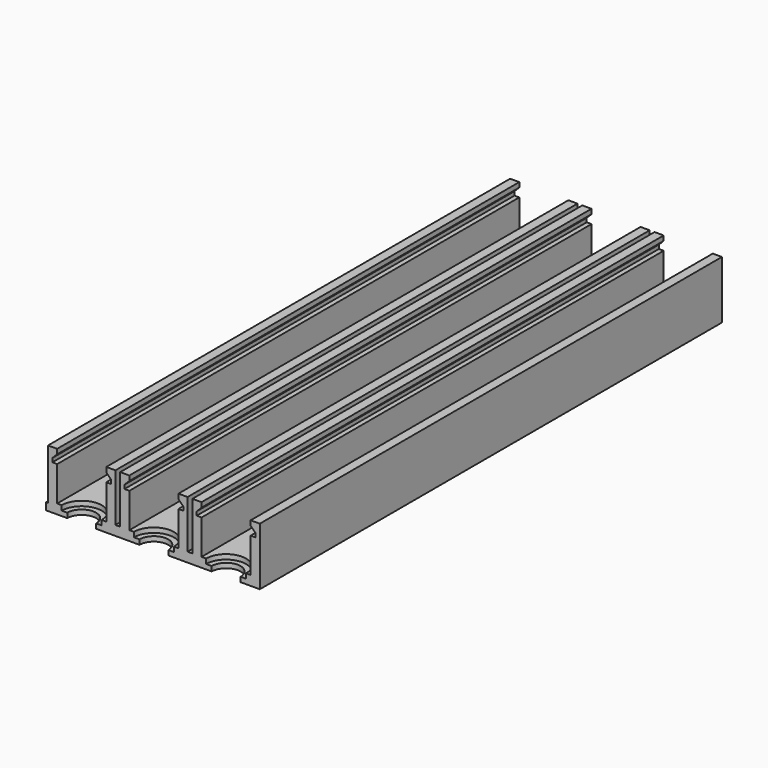
from build123d import *

# Parameters (mm, degrees)
PAD002_DEPTH           = 120
SKETCH012_W            = 44
SKETCH012_H            = 120
PAD003_DEPTH           = 2
LINEARPATTERN001_COUNT = 3
LINEARPATTERN001_PITCH = 15
SKETCH013_R            = 3
POCKET_DEPTH           = 5
SKETCH014_R            = 3
POCKET012_DEPTH        = 5
SKETCH016_R            = 4.15
POCKET013_DEPTH        = 1
POCKET013_DEPTH_BACK   = -8
SKETCH017_R            = 4.15
POCKET014_DEPTH        = 1
POCKET014_DEPTH_BACK   = -8
SKETCH_W               = 1.5
SKETCH_H               = 20
PAD_DEPTH              = 0.4


with BuildPart() as part:
    # Sketch011 → Pad002 (new body)
    with BuildSketch(Plane.XZ):
        Polygon((7, -6), (7, 6), (5.1, 6), (5.1, 5), (6.1, 4), (6.1, 3.2), (5.1, 3.2), (5.1, -4), (-5.1, -4), (-5.1, 3.2), (-6.1, 3.2), (-6.1, 4), (-5.1, 5), (-5.1, 6), (-7, 6), (-7, -6), align=None)
    pad002 = extrude(amount=PAD002_DEPTH)

    # Sketch012 (on DatumPlane) → Pad003 (join)
    with BuildSketch(Plane.XY.offset(-6)):
        with Locations((15, -60)):
            Rectangle(SKETCH012_W, SKETCH012_H)
    extrude(amount=PAD003_DEPTH)

    # LinearPattern001: Pad002 ×3
    with Locations(*[(i * LINEARPATTERN001_PITCH, 0, 0) for i in range(1, LINEARPATTERN001_COUNT)]):
        add(pad002)

    # Sketch013 → Pocket (cut)
    with BuildSketch(Plane(origin=(-15, -215.5, -4), x_dir=(1, 0, 0), z_dir=(0, 0, 1))):
        with Locations((15, 95.5)):
            Circle(SKETCH013_R)
        with Locations((45, 95.5)):
            Circle(SKETCH013_R)
        with Locations((30, 110.5)):
            Circle(SKETCH013_R)
        with Locations((15, 125.5)):
            Circle(SKETCH013_R)
        with Locations((45, 125.5)):
            Circle(SKETCH013_R)
        with Locations((15, 155.5)):
            Circle(SKETCH013_R)
        with Locations((45, 155.5)):
            Circle(SKETCH013_R)
        with Locations((30, 140.5)):
            Circle(SKETCH013_R)
        with Locations((30, 170.5)):
            Circle(SKETCH013_R)
        with Locations((15, 185.5)):
            Circle(SKETCH013_R)
        with Locations((45, 185.5)):
            Circle(SKETCH013_R)
        with Locations((30, 200.5)):
            Circle(SKETCH013_R)
        with Locations((15, 215.5)):
            Circle(SKETCH013_R)
        with Locations((45, 215.5)):
            Circle(SKETCH013_R)
    extrude(amount=-POCKET_DEPTH, mode=Mode.SUBTRACT)

    # Sketch014 → Pocket012 (cut)
    with BuildSketch(Plane(origin=(0, -215.5, -4), x_dir=(1, 0, 0), z_dir=(0, 0, 1))):
        with Locations((15, 95.5)):
            Circle(SKETCH014_R)
        with Locations((30, 110.5)):
            Circle(SKETCH014_R)
        with Locations((15, 125.5)):
            Circle(SKETCH014_R)
        with Locations((15, 155.5)):
            Circle(SKETCH014_R)
        with Locations((30, 140.5)):
            Circle(SKETCH014_R)
        with Locations((30, 170.5)):
            Circle(SKETCH014_R)
        with Locations((15, 185.5)):
            Circle(SKETCH014_R)
        with Locations((30, 200.5)):
            Circle(SKETCH014_R)
        with Locations((15, 215.5)):
            Circle(SKETCH014_R)
        with Locations((45, 215.5)):
            Circle(SKETCH014_R)
        with Locations((0, 110.5)):
            Circle(SKETCH014_R)
        with Locations((0, 140.5)):
            Circle(SKETCH014_R)
        with Locations((0, 170.5)):
            Circle(SKETCH014_R)
        with Locations((0, 200.5)):
            Circle(SKETCH014_R)
    extrude(amount=-POCKET012_DEPTH, mode=Mode.SUBTRACT)

    # Sketch016 → Pocket013 (cut, two sides)
    with BuildSketch(Plane(origin=(-15, -215.5, -4), x_dir=(1, 0, 0), z_dir=(0, 0, 1))) as pocket013_sk:
        with Locations((15, 95.5)):
            Circle(SKETCH016_R)
        with Locations((45, 95.5)):
            Circle(SKETCH016_R)
        with Locations((30, 110.5)):
            Circle(SKETCH016_R)
        with Locations((15, 125.5)):
            Circle(SKETCH016_R)
        with Locations((45, 125.5)):
            Circle(SKETCH016_R)
        with Locations((15, 155.5)):
            Circle(SKETCH016_R)
        with Locations((45, 155.5)):
            Circle(SKETCH016_R)
        with Locations((30, 140.5)):
            Circle(SKETCH016_R)
        with Locations((30, 170.5)):
            Circle(SKETCH016_R)
        with Locations((15, 185.5)):
            Circle(SKETCH016_R)
        with Locations((45, 185.5)):
            Circle(SKETCH016_R)
        with Locations((30, 200.5)):
            Circle(SKETCH016_R)
        with Locations((15, 215.5)):
            Circle(SKETCH016_R)
        with Locations((45, 215.5)):
            Circle(SKETCH016_R)
    extrude(amount=-POCKET013_DEPTH, mode=Mode.SUBTRACT)
    extrude(pocket013_sk.sketch, amount=-POCKET013_DEPTH_BACK, mode=Mode.SUBTRACT)

    # Sketch017 → Pocket014 (cut, two sides)
    with BuildSketch(Plane(origin=(0, -215.5, -4), x_dir=(1, 0, 0), z_dir=(0, 0, 1))) as pocket014_sk:
        with Locations((15, 95.5)):
            Circle(SKETCH017_R)
        with Locations((30, 110.5)):
            Circle(SKETCH017_R)
        with Locations((15, 125.5)):
            Circle(SKETCH017_R)
        with Locations((15, 155.5)):
            Circle(SKETCH017_R)
        with Locations((30, 140.5)):
            Circle(SKETCH017_R)
        with Locations((30, 170.5)):
            Circle(SKETCH017_R)
        with Locations((15, 185.5)):
            Circle(SKETCH017_R)
        with Locations((30, 200.5)):
            Circle(SKETCH017_R)
        with Locations((15, 215.5)):
            Circle(SKETCH017_R)
        with Locations((45, 215.5)):
            Circle(SKETCH017_R)
        with Locations((0, 110.5)):
            Circle(SKETCH017_R)
        with Locations((0, 140.5)):
            Circle(SKETCH017_R)
        with Locations((0, 170.5)):
            Circle(SKETCH017_R)
        with Locations((0, 200.5)):
            Circle(SKETCH017_R)
    extrude(amount=-POCKET014_DEPTH, mode=Mode.SUBTRACT)
    extrude(pocket014_sk.sketch, amount=-POCKET014_DEPTH_BACK, mode=Mode.SUBTRACT)

    # Sketch (on Face7 of Pocket014) → Pad (join)
    with BuildSketch(Plane(origin=(-7, 0, 0), x_dir=(0, 0, -1), z_dir=(-1, 0, 0))):
        with Locations((5.25, 110)):
            Rectangle(SKETCH_W, SKETCH_H)
    extrude(amount=PAD_DEPTH)


with BuildPart() as part_1:
    # Body001 placement: moved
    add(part.part.moved(Location((18.5, -36, 9))))


solid = part_1.part
